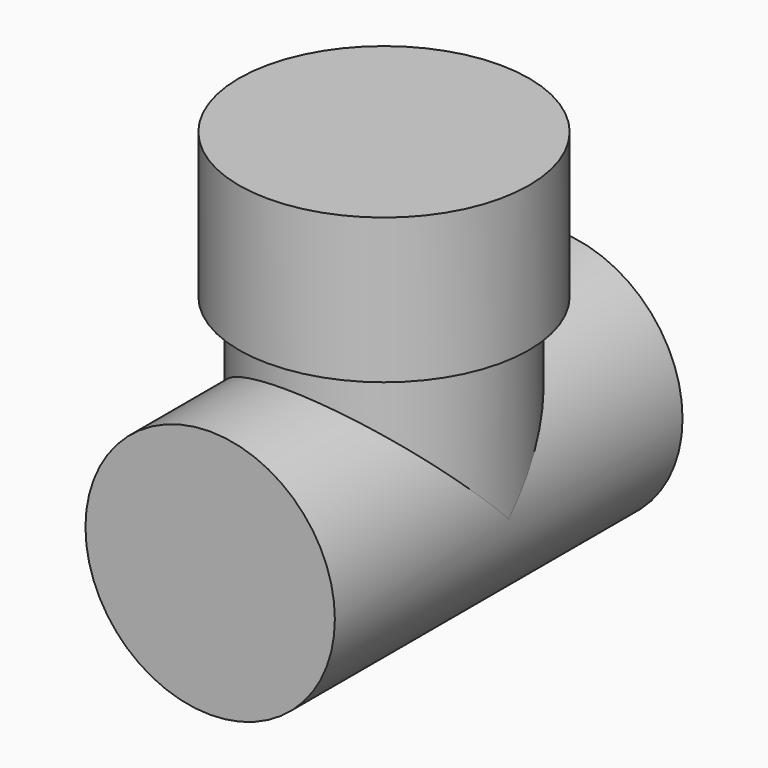
from build123d import *

# Parameters (mm, degrees)
F0_R          = 43.688
F2_DEPTH      = 76.1238
F2_DEPTH_BACK = 76.1238
F1_R          = 43.688
F3_DEPTH      = 54.356
F4_R          = 50.8
F4_R_2        = 43.688
F5_DEPTH      = 50.8


with BuildPart() as f2:
    # F0 (on Front) → F2 (new body, two sides)
    with BuildSketch(Plane.XZ) as f2_sk:
        Circle(F0_R)
    extrude(amount=F2_DEPTH)
    extrude(f2_sk.sketch, amount=-F2_DEPTH_BACK)

    # F1 (on Top) → F3 (join)
    with BuildSketch(Plane.XY):
        Circle(F1_R)
    extrude(amount=F3_DEPTH)

    # F4 (on face) → F5 (join)
    with BuildSketch(Plane.XY.offset(54.356)):
        Circle(F4_R)
        Circle(F4_R_2, mode=Mode.SUBTRACT)
        Circle(F4_R_2)
    extrude(amount=F5_DEPTH)


solid = f2.part
